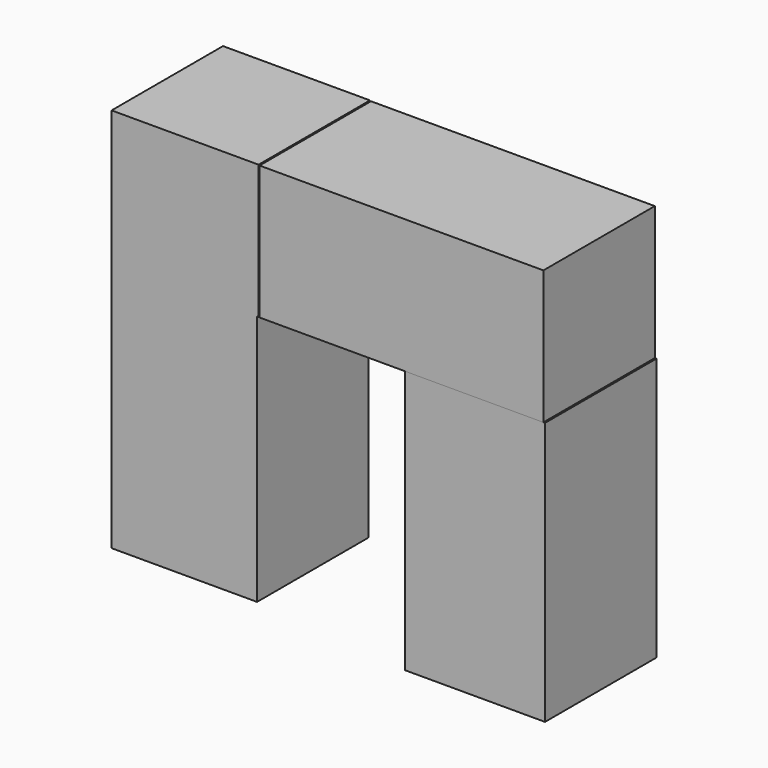
from build123d import *

# Parameters (mm, degrees)
F1_W     = 26.5332311392
F1_H     = 20.9256932139
F1_H_2   = 24.8920023441
F2_DEPTH = 25.4
F1_W_2   = 25.5414955318
F1_H_3   = 27.080308646
F0_W     = 26.5182834119
F0_H     = 24.4023110718
F0_W_2   = 25.2441931516


with BuildPart() as f2:
    # F1 (on Front) → F2 (new body)
    with BuildSketch(Plane.XZ):
        Polygon((-26.7043504864, 0), (-26.7043504864, 24.4816932827), (-53.511120379, 24.4816932827), (-53.511120379, 0), (-26.9778892398, 0), align=None)
        with Locations((-40.2445048094, -10.462846607)):
            Rectangle(F1_W, F1_H)
        with Locations((-40.2445048094, -33.371694386)):
            Rectangle(F1_W, F1_H_2)
    extrude(amount=F2_DEPTH)


with BuildPart() as f2b:
    # F1 (on Front) → F2, piece 2 (new body)
    with BuildSketch(Plane.XZ):
        with Locations((12.7707477659, -10.462846607)):
            Rectangle(F1_W_2, F1_H)
        with Locations((12.7707477659, -34.4658475369)):
            Rectangle(F1_W_2, F1_H_3)
    extrude(amount=F2_DEPTH)


with BuildPart() as f2c:
    # F0 (on Front) → F2, piece 3 (new body)
    with BuildSketch(Plane.XZ):
        with Locations((-13.2591417059, 12.2011555359)):
            Rectangle(F0_W, F0_H)
        with Locations((12.6220965758, 12.2011555359)):
            Rectangle(F0_W_2, F0_H)
    extrude(amount=F2_DEPTH)


solid = Compound([f2.part, f2b.part, f2c.part])
